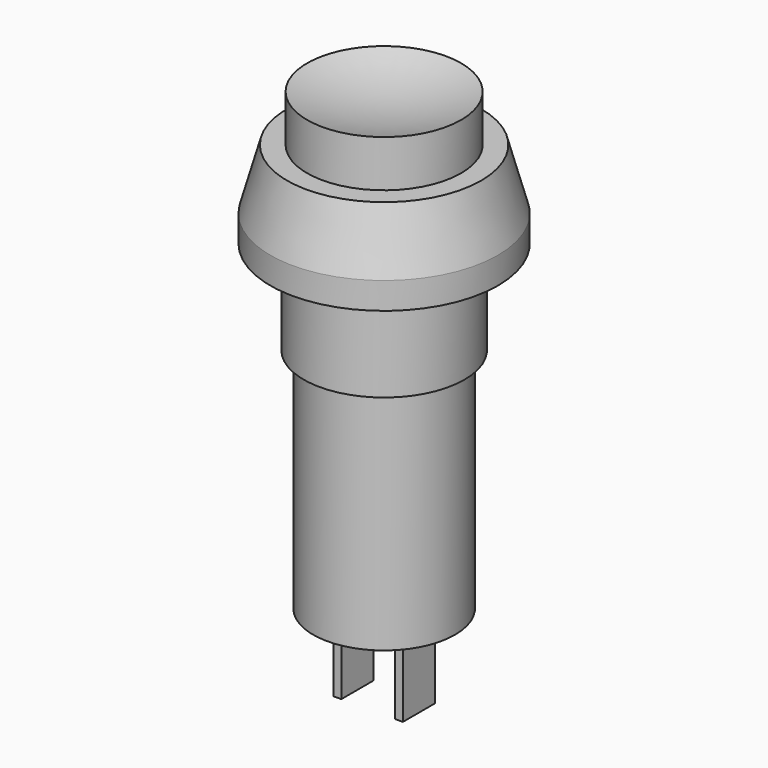
from build123d import *

# Parameters (mm, degrees)
F0_W     = 0.6
F0_H     = 6
F2_DEPTH = 1.5


with BuildPart() as f1:
    # F0 (on Front) → F1 (revolve)
    with BuildSketch(Plane.XZ):
        with BuildLine():
            Line((5.75, 6.5), (5.75, 10))
            ThreePointArc((5.75, 10), (2.9181543825, 9.2518623007), (0, 9))
            Line((0, 9), (0, -24))
            Line((0, -24), (2, -24))
            Line((2, -24), (2.6, -24))
            Line((2.6, -24), (5.3, -24))
            Line((5.3, -24), (5.3, -7))
            Line((5.3, -7), (6, -7))
            Line((6, -7), (6, 0))
            Line((6, 0), (8.5, 0))
            Line((8.5, 0), (8.5, 2))
            Line((8.5, 2), (7.25, 6.5))
            Line((7.25, 6.5), (5.75, 6.5))
        make_face()
    revolve(axis=Axis((0, 0, -7.5), (0, 0, 1)))

    # F0 (on Front) → F2 (join, symmetric)
    with BuildSketch(Plane.XZ):
        with Locations((-2.3, -27)):
            Rectangle(F0_W, F0_H)
        with Locations((2.3, -27)):
            Rectangle(F0_W, F0_H)
    extrude(amount=F2_DEPTH, both=True)


solid = f1.part
